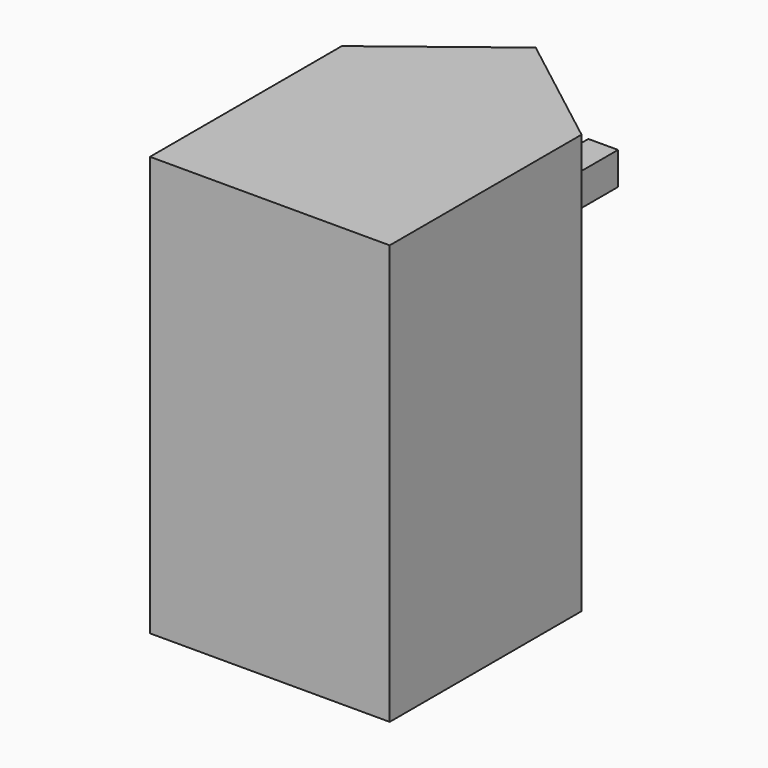
from build123d import *

# Parameters (mm, degrees)
F1_DEPTH = 88.9
F2_W     = 6.287623
F2_H     = 6.916381
F3_DEPTH = 43.18


with BuildPart() as f1:
    # F0 (on Top) → F1 (new body)
    with BuildSketch(Plane.XY):
        Polygon((-33.82342, 20.14784), (-33.82342, -30.65216), (16.97658, -30.65216), (16.97658, 20.14784), (-8.42342, 39.769217), align=None)
    extrude(amount=F1_DEPTH)

    # F2 (on Front) → F3 (join)
    with BuildSketch(Plane.XZ):
        with Locations((3.143811, 69.760177)):
            Rectangle(F2_W, F2_H)
    extrude(amount=-F3_DEPTH)


solid = f1.part
